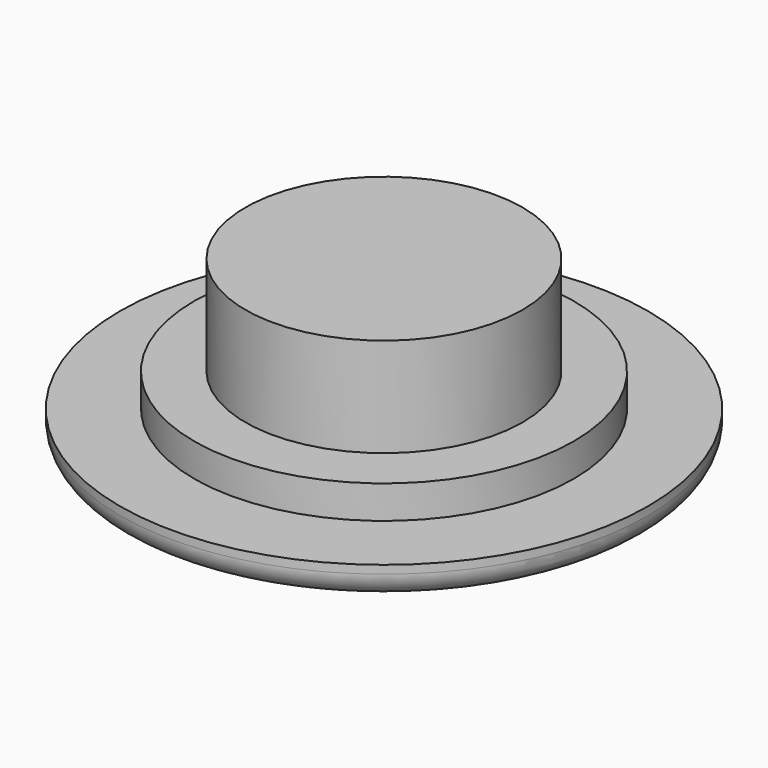
from build123d import *

# Parameters (mm, degrees)
F0_R     = 8
F1_DEPTH = 1
F2_R     = 5.75
F3_DEPTH = 1
F4_R     = 4.2
F5_DEPTH = 3
F6_R     = 0.75


with BuildPart() as f1:
    # F0 (on Top) → F1 (new body)
    with BuildSketch(Plane.XY):
        Circle(F0_R)
    extrude(amount=F1_DEPTH)

    # F2 (on face) → F3 (join)
    with BuildSketch(Plane.XY.offset(1)):
        Circle(F2_R)
    extrude(amount=F3_DEPTH)

    # F4 (on face) → F5 (join)
    with BuildSketch(Plane.XY.offset(2)):
        Circle(F4_R)
    extrude(amount=F5_DEPTH)

    # F6
    f6_edges = [f1.edges().sort_by_distance(p)[0] for p in [
        (-8, 0, 0),
    ]]
    fillet(f6_edges, radius=F6_R)


solid = f1.part
